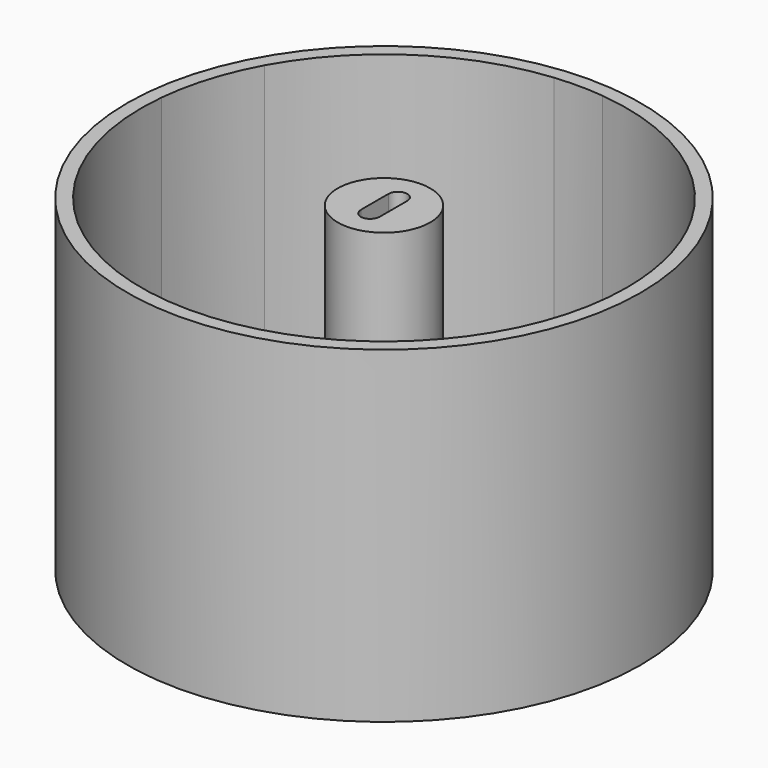
from build123d import *

# Parameters (mm, degrees)
F0_R     = 27.4243717003
F1_DEPTH = 35
F2_DEPTH = 7.35
F0_R_2   = 0.735
F0_R_3   = 4.94
F3_DEPTH = 2.2
F4_DEPTH = 2.30452
F5_R     = 4.94
F6_DEPTH = 31.99051


with BuildPart() as f1:
    # F0 (on Top) → F1 (new body)
    with BuildSketch(Plane.XY):
        Circle(F0_R)
        with BuildLine():
            ThreePointArc((22.4924149425, 12.9118354642), (24.1955551249, 9.3380585348), (25.3349236359, 5.546698961))
            ThreePointArc((25.3349236359, 5.546698961), (25.7845444937, 2.789532264), (25.935, 0))
            ThreePointArc((25.935, 0), (24.9905557449, -6.935153103), (22.2260084009, -13.3652076513))
            ThreePointArc((22.2260084009, -13.3652076513), (19.0060906975, -17.6463237361), (14.9753258207, -21.1746036932))
            ThreePointArc((14.9753258207, -21.1746036932), (2.1917464406, -25.8422226703), (-11.1953286546, -23.3942052935))
            ThreePointArc((-11.1953286546, -23.3942052935), (-15.3006955677, -20.9407005648), (-18.8857364827, -17.775071941))
            ThreePointArc((-18.8857364827, -17.775071941), (-24.5544366053, -8.3488842366), (-25.8064478461, 2.5790452823))
            ThreePointArc((-25.8064478461, 2.5790452823), (-24.7694228602, 7.6876469855), (-22.7317421539, 12.4856767398))
            ThreePointArc((-22.7317421539, 12.4856767398), (-14.2591316257, 21.6633651652), (-2.4791175308, 25.8162391))
            ThreePointArc((-2.4791175308, 25.8162391), (0.1109366843, 25.9347627337), (2.6998821615, 25.7940857817))
            ThreePointArc((2.6998821615, 25.7940857817), (14.1474750982, 21.7364480388), (22.4924149425, 12.9118354642))
        make_face(mode=Mode.SUBTRACT)
    extrude(amount=F1_DEPTH)

    # F0 (on Top) → F2 (join)
    with BuildSketch(Plane.XY):
        with BuildLine():
            Line((22.2260084009, -13.3652076513), (7.4958561826, -4.3467648993))
            ThreePointArc((7.4958561826, -4.3467648993), (5.751506041, -6.4809261113), (3.4251739378, -7.959296985))
            Line((3.4251739378, -7.959296985), (14.9753258207, -21.1746036932))
            ThreePointArc((14.9753258207, -21.1746036932), (19.0060906975, -17.6463237361), (22.2260084009, -13.3652076513))
        make_face()
        with BuildLine():
            ThreePointArc((7.0672034825, 5.0136673141), (7.9748170172, 3.3888816064), (8.5145365353, 1.6077601153))
            Line((8.5145365353, 1.6077601153), (25.3349236359, 5.546698961))
            ThreePointArc((25.3349236359, 5.546698961), (24.1955551249, 9.3380585348), (22.4924149425, 12.9118354642))
            Line((22.4924149425, 12.9118354642), (7.0672034825, 5.0136673141))
        make_face()
        with BuildLine():
            ThreePointArc((-1.7975824717, 8.4764923322), (0.4672047175, 8.6523953187), (2.6998821615, 8.2336420443))
            Line((2.6998821615, 8.2336420443), (2.6998821615, 25.7940857817))
            ThreePointArc((2.6998821615, 25.7940857817), (0.1109366843, 25.9347627337), (-2.4791175308, 25.8162391))
            Line((-2.4791175308, 25.8162391), (-1.7975824717, 8.4764923322))
        make_face()
        with BuildLine():
            ThreePointArc((-8.0730394743, -3.1477386559), (-8.5412222171, 1.4593656284), (-6.569904314, 5.6496532907))
            Line((-6.569904314, 5.6496532907), (-22.7317421539, 12.4856767398))
            ThreePointArc((-22.7317421539, 12.4856767398), (-24.7694228602, 7.6876469855), (-25.8064478461, 2.5790452823))
            Line((-25.8064478461, 2.5790452823), (-8.0730394743, -3.1477386559))
        make_face()
        with BuildLine():
            Line((-11.1953286546, -23.3942052935), (-3.3863183591, -7.9759057774))
            ThreePointArc((-3.3863183591, -7.9759057774), (-4.6322458356, -7.3228767242), (-5.7560910789, -6.4768542126))
            Line((-5.7560910789, -6.4768542126), (-18.8857364827, -17.775071941))
            ThreePointArc((-18.8857364827, -17.775071941), (-15.3006955677, -20.9407005648), (-11.1953286546, -23.3942052935))
        make_face()
    extrude(amount=F2_DEPTH)

    # F0 (on Top) → F3 (join)
    with BuildSketch(Plane.XY):
        with BuildLine():
            ThreePointArc((7.4958561826, -4.3467648993), (8.3676107349, -2.2506255995), (8.665, 0))
            ThreePointArc((8.665, 0), (8.6273021298, 0.807392693), (8.5145365353, 1.6077601153))
            ThreePointArc((8.5145365353, 1.6077601153), (7.9748170172, 3.3888816064), (7.0672034825, 5.0136673141))
            ThreePointArc((7.0672034825, 5.0136673141), (5.1420861341, 6.9743225614), (2.6998821615, 8.2336420443))
            ThreePointArc((2.6998821615, 8.2336420443), (0.4672047175, 8.6523953187), (-1.7975824717, 8.4764923322))
            ThreePointArc((-1.7975824717, 8.4764923322), (-4.4160461409, 7.4552505981), (-6.569904314, 5.6496532907))
            ThreePointArc((-6.569904314, 5.6496532907), (-8.5412222171, 1.4593656284), (-8.0730394743, -3.1477386559))
            ThreePointArc((-8.0730394743, -3.1477386559), (-7.1120999404, -4.9497736754), (-5.7560910789, -6.4768542126))
            ThreePointArc((-5.7560910789, -6.4768542126), (-4.6322458356, -7.3228767242), (-3.3863183591, -7.9759057774))
            ThreePointArc((-3.3863183591, -7.9759057774), (0.0211282274, -8.664974241), (3.4251739378, -7.959296985))
            ThreePointArc((3.4251739378, -7.959296985), (5.751506041, -6.4809261113), (7.4958561826, -4.3467648993))
        make_face()
        with Locations((-5.658719223, -3.3904951997)):
            Circle(F0_R_2, mode=Mode.SUBTRACT)
        with Locations((5.5777155794, -3.3904951997)):
            Circle(F0_R_2, mode=Mode.SUBTRACT)
        with Locations((-5.5862264708, 4.1487901472)):
            Circle(F0_R_2, mode=Mode.SUBTRACT)
        Circle(F0_R_3, mode=Mode.SUBTRACT)
        with Locations((5.5777155794, 4.1487901472)):
            Circle(F0_R_2, mode=Mode.SUBTRACT)
    extrude(amount=F3_DEPTH)

    # F0 (on Top) → F4 (join)
    with BuildSketch(Plane.XY):
        Circle(F0_R_3)
    extrude(amount=F4_DEPTH)

    # F5 (on face) → F6 (join)
    with BuildSketch(Plane.XY.offset(2.30452)):
        Circle(F5_R)
        with BuildLine():
            Line((1.0092968587, 1.861386816), (1.0092968587, -1.861386816))
            Line((1.0092968587, -1.861386816), (0.9870916385, -1.861386816))
            ThreePointArc((0.9870916385, -1.861386816), (0, -2.8484784545), (-0.9870916385, -1.861386816))
            Line((-0.9870916385, -1.861386816), (-1.0092968587, -1.861386816))
            Line((-1.0092968587, -1.861386816), (-1.0092968587, 1.861386816))
            Line((-1.0092968587, 1.861386816), (-1.0026240675, 1.861386816))
            ThreePointArc((-1.0026240675, 1.861386816), (0, 2.8640108835), (1.0026240675, 1.861386816))
            Line((1.0026240675, 1.861386816), (1.0092968587, 1.861386816))
        make_face(mode=Mode.SUBTRACT)
    extrude(amount=F6_DEPTH)


solid = f1.part
